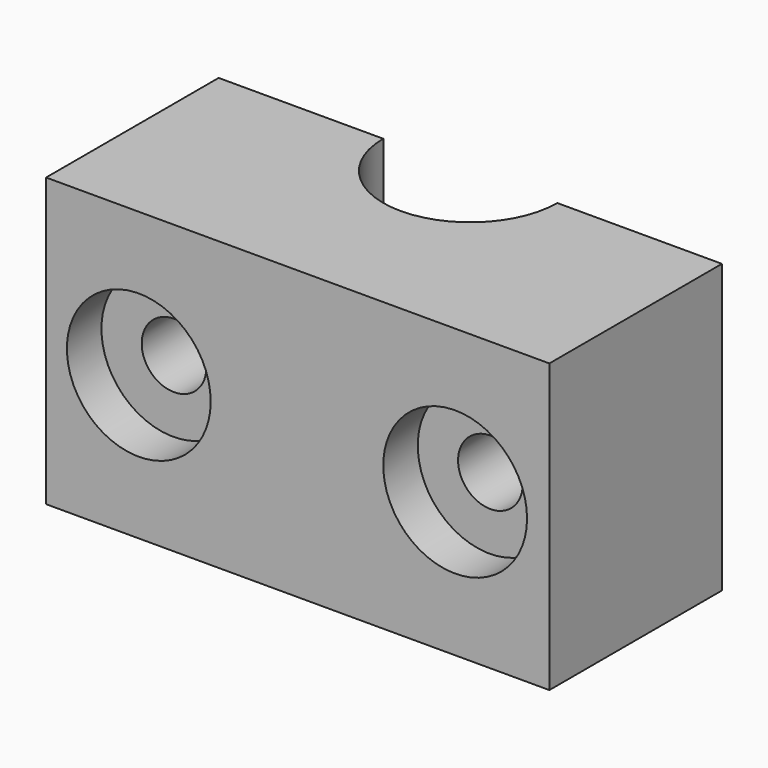
from build123d import *

# Parameters (mm, degrees)
PAD_DEPTH       = 20
SKETCH001_R     = 2.25
POCKET_DEPTH    = 15.001
SKETCH002_R     = 5
POCKET001_DEPTH = 3


with BuildPart() as part:
    # Sketch → Pad (new body)
    with BuildSketch(Plane.XY):
        with BuildLine():
            ThreePointArc((-6.05, 0), (0, -6.05), (6.05, 0))
            Line((6.05, 0), (17.5, 0))
            Line((17.5, 0), (17.5, -15))
            Line((17.5, -15), (-17.5, -15))
            Line((-17.5, -15), (-17.5, 0))
            Line((-17.5, 0), (-6.05, 0))
        make_face()
    extrude(amount=PAD_DEPTH)

    # Sketch001 → Pocket (cut, through all)
    with BuildSketch(Plane.XZ.offset(15)):
        with Locations((-11, 10)):
            Circle(SKETCH001_R)
        with Locations((11, 10)):
            Circle(SKETCH001_R)
    extrude(amount=-POCKET_DEPTH, mode=Mode.SUBTRACT)

    # Sketch002 → Pocket001 (cut)
    with BuildSketch(Plane.XZ.offset(15)):
        with Locations((-11.052364, 10)):
            Circle(SKETCH002_R)
        with Locations((10.947636, 10)):
            Circle(SKETCH002_R)
    extrude(amount=-POCKET001_DEPTH, mode=Mode.SUBTRACT)


solid = part.part
